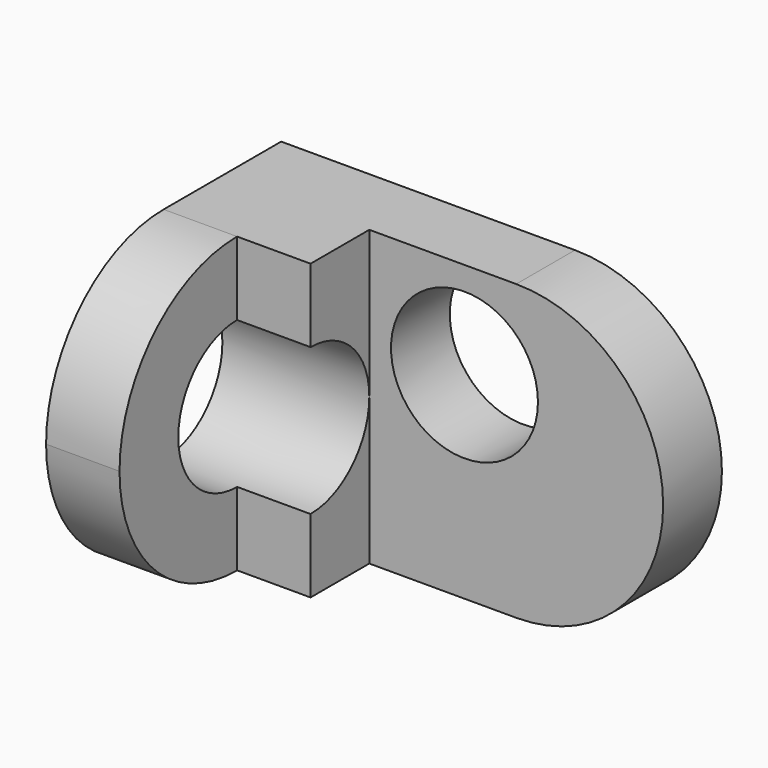
from build123d import *

# Parameters (mm, degrees)
F0_W      = 40
F0_H      = 40
F1_DEPTH  = 10
F2_W      = 10
F2_H      = 40
F3_DEPTH  = 10
F4_DEPTH  = 30
F5_R      = 10
F6_DEPTH  = 10
F7_R      = 10
F8_DEPTH  = 16.7
F10_DEPTH = 25
F12_DEPTH = 25
F14_DEPTH = 25


with BuildPart() as f1:
    # F0 (on Front) → F1 (new body)
    with BuildSketch(Plane.XZ):
        with Locations((20, 20)):
            Rectangle(F0_W, F0_H)
        with BuildLine():
            ThreePointArc((40, 0), (60, 20), (40, 40))
            Line((40, 40), (40, 0))
        make_face()
    extrude(amount=F1_DEPTH)

    # F2 (on face) → F3 (join)
    with BuildSketch(Plane.XZ.offset(10)):
        with Locations((15, 20)):
            Rectangle(F2_W, F2_H)
    extrude(amount=F3_DEPTH)

    # F4 (add): a face of the model
    f4_faces = [f1.faces().sort_by_distance(p)[0] for p in [
        (5, -10, 20),
    ]]
    extrude(f4_faces, amount=F4_DEPTH)

    # F5 (on face) → F6 (cut)
    with BuildSketch(Plane.XZ.offset(10)):
        with Locations((32.9558737576, 26.8098879606)):
            Circle(F5_R)
    extrude(amount=-F6_DEPTH, mode=Mode.SUBTRACT)

    # F7 (on face) → F8 (cut)
    with BuildSketch(Plane.YZ.offset(10)):
        with Locations((-20, 20)):
            Circle(F7_R)
    extrude(amount=-F8_DEPTH, mode=Mode.SUBTRACT)

    # F9 (on face) → F10 (cut)
    with BuildSketch(Plane.YZ.offset(20)):
        with BuildLine():
            ThreePointArc((-20, 10), (-12.9289321881, 12.9289321881), (-10, 20))
            ThreePointArc((-10, 20), (-12.9289321881, 27.0710678119), (-20, 30))
            Line((-20, 30), (-20, 10))
        make_face()
    extrude(amount=-F10_DEPTH, mode=Mode.SUBTRACT)

    # F11 (on face) → F12 (cut)
    with BuildSketch(Plane.YZ.offset(10)):
        with BuildLine():
            ThreePointArc((-40, 20), (-34.1421356237, 34.1421356237), (-20, 40))
            Line((-20, 40), (-40, 40))
            Line((-40, 40), (-40, 20))
        make_face()
    extrude(amount=-F12_DEPTH, mode=Mode.SUBTRACT)

    # F13 (on face) → F14 (cut)
    with BuildSketch(Plane.YZ.offset(10)):
        with BuildLine():
            ThreePointArc((-20, 0), (-34.1421356237, 5.8578643763), (-40, 20))
            Line((-40, 20), (-40, 0))
            Line((-40, 0), (-20, 0))
        make_face()
    extrude(amount=-F14_DEPTH, mode=Mode.SUBTRACT)


solid = f1.part
